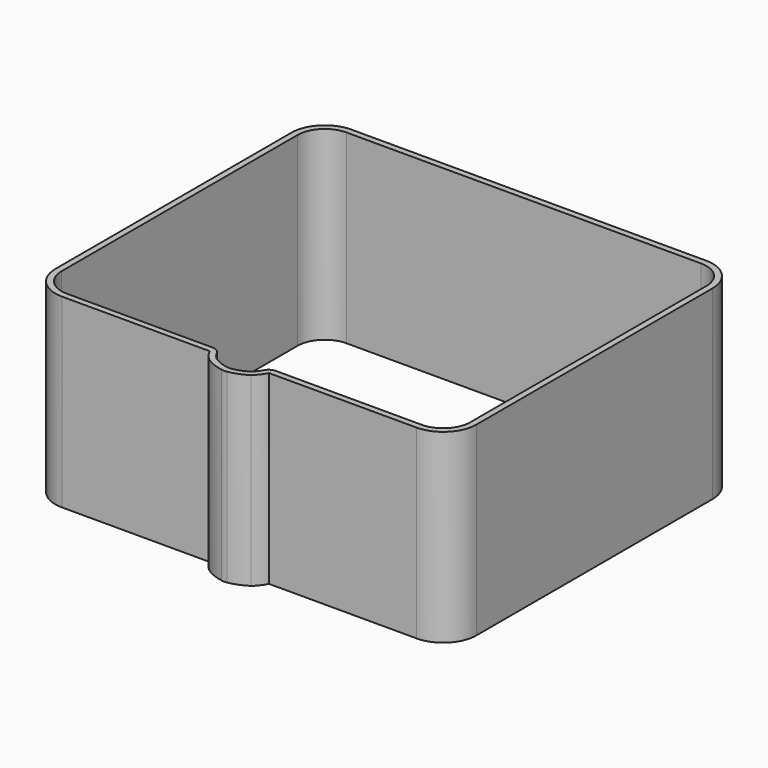
from build123d import *

# Parameters (mm, degrees)
F2_DEPTH = 78


with BuildPart() as f2:
    # F1 (on Top) → F2 (new body)
    with BuildSketch(Plane.XY):
        with BuildLine():
            Line((0, 80.487532), (-74.5, 80.487532))
            ThreePointArc((-74.5, 80.487532), (-84.399495, 76.387027), (-88.5, 66.487532))
            Line((-88.5, 66.487532), (-88.5, -57.512468))
            ThreePointArc((-88.5, -57.512468), (-84.399495, -67.411963), (-74.5, -71.512468))
            Line((-74.5, -71.512468), (-12.452082, -71.512468))
            ThreePointArc((-12.452082, -71.512468), (-10.841187, -74.116993), (-8.732535, -76.337829))
            ThreePointArc((-8.732535, -76.337829), (-5.097042, -78.250273), (-1.138393, -79.347245))
            ThreePointArc((-1.138393, -79.347245), (0, -79.440432), (1.138393, -79.347245))
            ThreePointArc((1.138393, -79.347245), (5.097042, -78.250273), (8.732535, -76.337829))
            ThreePointArc((8.732535, -76.337829), (10.841187, -74.116993), (12.452082, -71.512468))
            Line((12.452082, -71.512468), (74.5, -71.512468))
            ThreePointArc((74.5, -71.512468), (84.399495, -67.411963), (88.5, -57.512468))
            Line((88.5, -57.512468), (88.5, 66.487532))
            ThreePointArc((88.5, 66.487532), (84.399495, 76.387027), (74.5, 80.487532))
            Line((74.5, 80.487532), (0, 80.487532))
        make_face()
        with BuildLine():
            ThreePointArc((-85.9, 66.487532), (-82.561017, 74.548549), (-74.5, 77.887532))
            Line((-74.5, 77.887532), (0, 77.887532))
            Line((0, 77.887532), (74.5, 77.887532))
            ThreePointArc((74.5, 77.887532), (82.561017, 74.548549), (85.9, 66.487532))
            Line((85.9, 66.487532), (85.9, -57.512468))
            ThreePointArc((85.9, -57.512468), (82.561017, -65.573485), (74.5, -68.912468))
            Line((74.5, -68.912468), (13.298328, -68.912468))
            ThreePointArc((13.298328, -68.912468), (11.575945, -69.310106), (10.202183, -70.422535))
            ThreePointArc((10.202183, -70.422535), (8.905312, -72.5331), (7.215461, -74.344388))
            ThreePointArc((7.215461, -74.344388), (4.43663, -75.820296), (1.430672, -76.750039))
            ThreePointArc((1.430672, -76.750039), (0, -76.8978), (-1.430672, -76.750039))
            ThreePointArc((-1.430672, -76.750039), (-4.43663, -75.820296), (-7.215461, -74.344388))
            ThreePointArc((-7.215461, -74.344388), (-8.905312, -72.5331), (-10.202183, -70.422535))
            ThreePointArc((-10.202183, -70.422535), (-11.575945, -69.310106), (-13.298328, -68.912468))
            Line((-13.298328, -68.912468), (-74.5, -68.912468))
            ThreePointArc((-74.5, -68.912468), (-82.561017, -65.573485), (-85.9, -57.512468))
            Line((-85.9, -57.512468), (-85.9, 66.487532))
        make_face(mode=Mode.SUBTRACT)
    extrude(amount=F2_DEPTH)


solid = f2.part
